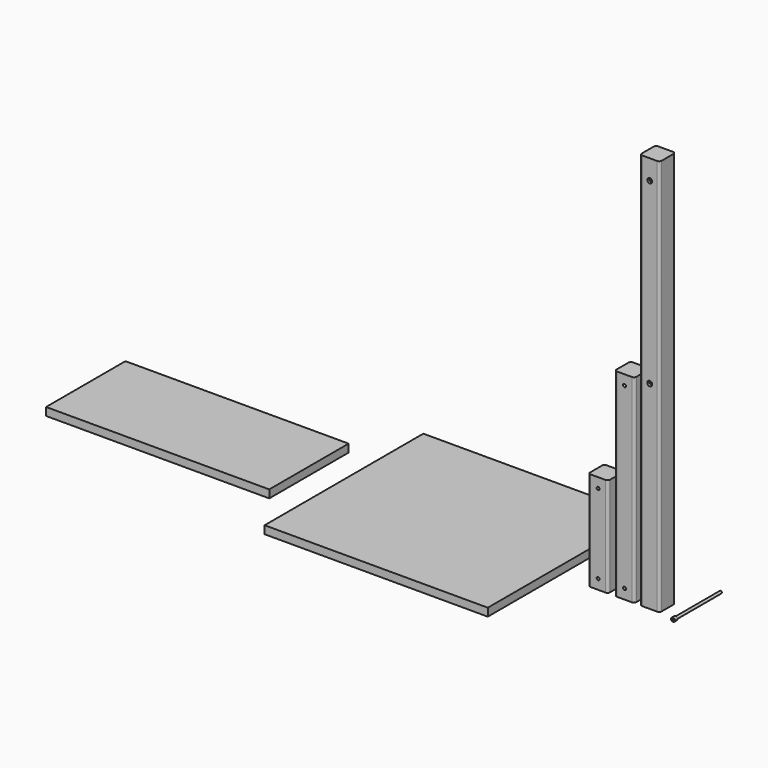
from build123d import *

# Parameters (mm, degrees)
F0_W            = 40
F0_H            = 40
F1_DEPTH        = 800
F3_D            = 6
F3_CBORE_D      = 10
F3_CBORE_DEPTH  = 5
F4_R            = 5
F5_R            = 4
F6_DEPTH        = 6
F7_R            = 2.5
F8_DEPTH        = 120
F10_DEPTH       = 4
F11_W           = 40
F11_H           = 40
F12_DEPTH       = 400
F13_R           = 5
F15_D           = 6
F15_CBORE_D     = 10
F15_CBORE_DEPTH = 5
F16_W           = 40
F16_H           = 40
F17_DEPTH       = 200
F18_R           = 5
F20_D           = 6
F20_CBORE_D     = 10
F20_CBORE_DEPTH = 5
F21_W           = 450
F21_H           = 400
F22_DEPTH       = 16
F23_W           = 450
F23_H           = 200
F24_DEPTH       = 16


with BuildPart() as f1:
    # F0 (on Top) → F1 (new body)
    with BuildSketch(Plane.XY):
        Rectangle(F0_W, F0_H)
    extrude(amount=F1_DEPTH)

    # F3 (through all)
    with Locations(Plane.XZ.offset(20)):
        with Locations((0, 760), (0, 400)):
            CounterBoreHole(F3_D / 2, F3_CBORE_D / 2, F3_CBORE_DEPTH)

    # F4
    f4_edges = [f1.edges().sort_by_distance(p)[0] for p in [
        (-20, 20, 400),
        (20, 20, 400),
        (-20, -20, 400),
        (20, -20, 400),
    ]]
    fillet(f4_edges, radius=F4_R)


with BuildPart() as f6:
    # F5 (on Front) → F6 (new body)
    with BuildSketch(Plane.XZ):
        with Locations((35.8241572976, -13.0263091996)):
            Circle(F5_R)
    extrude(amount=F6_DEPTH)

    # F7 (on face) → F8 (join)
    with BuildSketch(Plane.XZ.offset(6)):
        with Locations((35.8241572976, -13.0263091996)):
            Circle(F7_R)
    extrude(amount=-F8_DEPTH)

    # F9 (on face) → F10 (cut)
    with BuildSketch(Plane.XZ.offset(6)):
        with BuildLine():
            ThreePointArc((38.1910076976, -13.8313055873), (38.2906452866, -13.4342761101), (38.3241572976, -13.0263091996))
            ThreePointArc((38.3241572976, -13.0263091996), (38.1641820372, -12.1463749873), (37.7047299232, -11.3790549387))
            ThreePointArc((37.7047299232, -11.3790549387), (36.6291537099, -10.659458808), (35.3378793156, -10.574058453))
            ThreePointArc((35.3378793156, -10.574058453), (34.1769029635, -11.1457366382), (33.4573069705, -12.2213125976))
            ThreePointArc((33.4573069705, -12.2213125976), (33.3719064931, -13.5125868896), (33.9435846721, -14.6735634605))
            ThreePointArc((33.9435846721, -14.6735634605), (35.0191607987, -15.3931595618), (36.3104351001, -15.4785599818))
            ThreePointArc((36.3104351001, -15.4785599818), (37.471411648, -14.9068817468), (38.1910076976, -13.8313055873))
        make_face()
        with BuildLine():
            ThreePointArc((37.7047299232, -11.3790549387), (38.1641820372, -12.1463749873), (38.3241572976, -13.0263091996))
            ThreePointArc((38.3241572976, -13.0263091996), (38.2906452866, -13.4342761101), (38.1910076976, -13.8313055873))
            Line((38.1910076976, -13.8313055873), (38.6557725839, -12.4648038982))
            Line((38.6557725839, -12.4648038982), (37.7047299232, -11.3790549387))
        make_face()
        with BuildLine():
            ThreePointArc((35.3378793156, -10.574058453), (36.6291537099, -10.659458808), (37.7047299232, -11.3790549387))
            Line((37.7047299232, -11.3790549387), (36.7536870854, -10.2933057772))
            Line((36.7536870854, -10.2933057772), (35.3378793156, -10.574058453))
        make_face()
        with BuildLine():
            Line((37.7262427962, -15.1978073206), (38.1910076976, -13.8313055873))
            ThreePointArc((38.1910076976, -13.8313055873), (37.471411648, -14.9068817468), (36.3104351001, -15.4785599818))
            Line((36.3104351001, -15.4785599818), (37.7262427962, -15.1978073206))
        make_face()
        with BuildLine():
            ThreePointArc((33.4573069705, -12.2213125976), (34.1769029635, -11.1457366382), (35.3378793156, -10.574058453))
            Line((35.3378793156, -10.574058453), (33.922071799, -10.8548110787))
            Line((33.922071799, -10.8548110787), (33.4573069705, -12.2213125976))
        make_face()
        with BuildLine():
            Line((34.8946275099, -15.7593126221), (36.3104351001, -15.4785599818))
            ThreePointArc((36.3104351001, -15.4785599818), (35.0191607987, -15.3931595618), (33.9435846721, -14.6735634605))
            Line((33.9435846721, -14.6735634605), (34.8946275099, -15.7593126221))
        make_face()
        with BuildLine():
            ThreePointArc((33.9435846721, -14.6735634605), (33.3719064931, -13.5125868896), (33.4573069705, -12.2213125976))
            Line((33.4573069705, -12.2213125976), (32.9925420113, -13.5878145011))
            Line((32.9925420113, -13.5878145011), (33.9435846721, -14.6735634605))
        make_face()
    extrude(amount=-F10_DEPTH, mode=Mode.SUBTRACT)


with BuildPart() as f12:
    # F11 (on Top) → F12 (new body)
    with BuildSketch(Plane.XY):
        with Locations((-50.8333270538, 0)):
            Rectangle(F11_W, F11_H)
    extrude(amount=F12_DEPTH)

    # F13
    f13_edges = [f12.edges().sort_by_distance(p)[0] for p in [
        (-70.833327, -20, 200),
        (-30.833327, -20, 200),
        (-30.833327, 20, 200),
        (-70.833327, 20, 200),
    ]]
    fillet(f13_edges, radius=F13_R)

    # F15 (through all)
    with Locations(Plane(origin=(0, 20, 0), x_dir=(-1, 0, 0), z_dir=(0, 1, 0))):
        with Locations((50.8333270538, 20), (50.8333270538, 380)):
            CounterBoreHole(F15_D / 2, F15_CBORE_D / 2, F15_CBORE_DEPTH)


with BuildPart() as f17:
    # F16 (on Top) → F17 (new body)
    with BuildSketch(Plane.XY):
        with Locations((-104.0925830603, 0)):
            Rectangle(F16_W, F16_H)
    extrude(amount=F17_DEPTH)

    # F18
    f18_edges = [f17.edges().sort_by_distance(p)[0] for p in [
        (-124.092583, 20, 100),
        (-84.092583, 20, 100),
        (-124.092583, -20, 100),
        (-84.092583, -20, 100),
    ]]
    fillet(f18_edges, radius=F18_R)

    # F20 (through all)
    with Locations(Plane(origin=(0, 20, 0), x_dir=(-1, 0, 0), z_dir=(0, 1, 0))):
        with Locations((104.0925830603, 20), (104.0925830603, 180)):
            CounterBoreHole(F20_D / 2, F20_CBORE_D / 2, F20_CBORE_DEPTH)


with BuildPart() as f22:
    # F21 (on Top) → F22 (new body)
    with BuildSketch(Plane.XY):
        with Locations((-407.5689315796, 0)):
            Rectangle(F21_W, F21_H)
    extrude(amount=F22_DEPTH)


with BuildPart() as f24:
    # F23 (on Top) → F24 (new body)
    with BuildSketch(Plane.XY):
        with Locations((-928.203523159, 0)):
            Rectangle(F23_W, F23_H)
    extrude(amount=F24_DEPTH)


solid = Compound([f1.part, f6.part, f12.part, f17.part, f22.part, f24.part])
